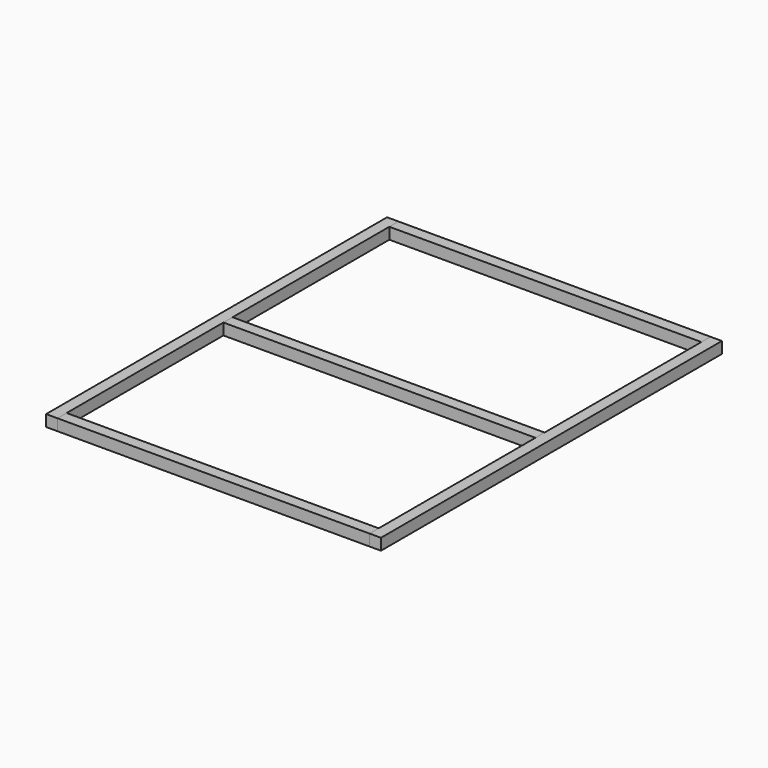
from build123d import *

# Parameters (mm, degrees)
F1_DEPTH = 15
F0_W     = 410
F0_H     = 15
F2_DEPTH = 15


with BuildPart() as f1:
    # F0 (on Top) → F1 (new body)
    with BuildSketch(Plane.XY):
        Polygon((-205, 265), (-205, 280), (-220, 280), (-220, -280), (-205, -280), (-205, -265), (-205, -7.5), (-205, 7.5), align=None)
        Polygon((220, -280), (220, 280), (205, 280), (205, 265), (205, 7.5), (205, -7.5), (205, -265), (205, -280), align=None)
    extrude(amount=F1_DEPTH)


with BuildPart() as f2:
    # F0 (on Top) → F2 (new body)
    with BuildSketch(Plane.XY):
        with Locations((0, 272.5)):
            Rectangle(F0_W, F0_H)
        Rectangle(F0_W, F0_H)
        with Locations((0, -272.5)):
            Rectangle(F0_W, F0_H)
    extrude(amount=F2_DEPTH)


solid = Compound([f1.part, f2.part])
